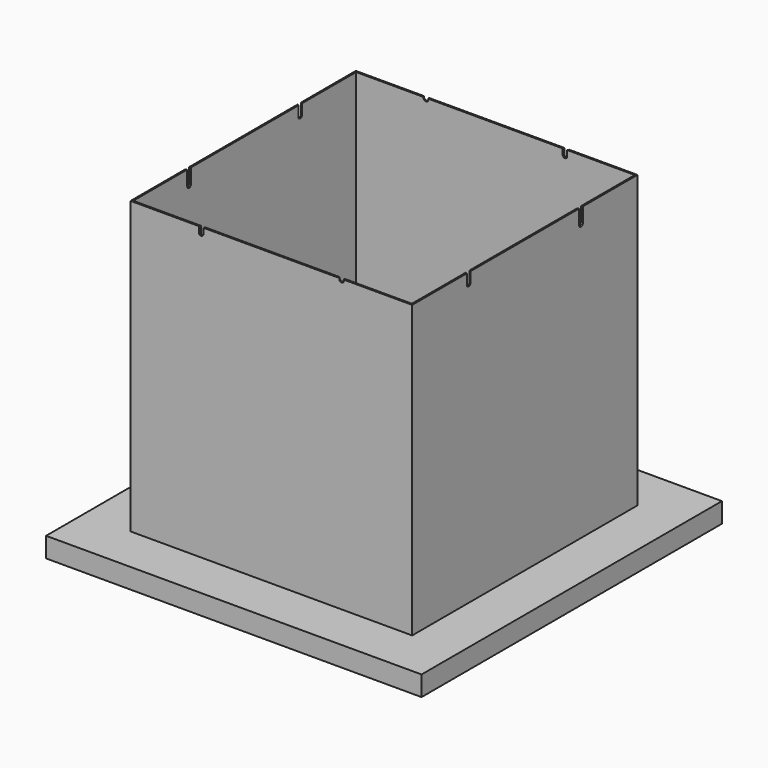
from build123d import *

# Parameters (mm, degrees)
F0_W     = 203.2
F0_H     = 203.2
F0_R     = 1
F1_DEPTH = 0.8
F2_W     = 203.2
F2_H     = 203.2
F2_W_2   = 201.6
F2_H_2   = 201.6
F3_DEPTH = 10
F4_W     = 152.4
F4_H     = 152.4
F4_W_2   = 150.8
F4_H_2   = 150.8
F5_DEPTH = 157.48


with BuildPart() as f1:
    # F0 (on Top) → F1 (new body)
    with BuildSketch(Plane.XY):
        Rectangle(F0_W, F0_H)
        Circle(F0_R, mode=Mode.SUBTRACT)
    extrude(amount=F1_DEPTH)

    # F2 (on face) → F3 (join)
    with BuildSketch(Plane(origin=(0, 0, 0), x_dir=(1, 0, 0), z_dir=(0, 0, -1))):
        Rectangle(F2_W, F2_H)
        Rectangle(F2_W_2, F2_H_2, mode=Mode.SUBTRACT)
    extrude(amount=F3_DEPTH)


with BuildPart() as f5:
    # F4 (on face) → F5 (new body)
    with BuildSketch(Plane.XY.offset(0.8)):
        Rectangle(F4_W, F4_H)
        Rectangle(F4_W_2, F4_H_2, mode=Mode.SUBTRACT)
    extrude(amount=F5_DEPTH)

    # F9: sweep along a path in F8
    with BuildLine(Plane.XY.offset(158.28)) as f9_path:
        Line((38, -76.2), (-38, 76.2))
    # F6 (on face) → F9 (sweep, cut)
    with BuildSketch(Plane.XZ.offset(76.2)):
        with BuildLine():
            Line((39.25, 158.28), (36.75, 158.28))
            Line((36.75, 158.28), (36.75, 157.78))
            ThreePointArc((36.75, 157.78), (38, 156.53), (39.25, 157.78))
            Line((39.25, 157.78), (39.25, 158.28))
        make_face()
    sweep(path=f9_path.line, mode=Mode.SUBTRACT)

    # F10: sweep along a path in F8
    with BuildLine(Plane.XY.offset(158.28)) as f10_path:
        Line((-38, -76.2), (38, 76.2))
    # F6 (on face) → F10 (sweep, cut)
    with BuildSketch(Plane.XZ.offset(76.2)):
        with BuildLine():
            Line((-36.75, 155.28), (-36.75, 158.28))
            Line((-36.75, 158.28), (-39.25, 158.28))
            Line((-39.25, 158.28), (-39.25, 155.28))
            ThreePointArc((-39.25, 155.28), (-38, 154.03), (-36.75, 155.28))
        make_face()
    sweep(path=f10_path.line, mode=Mode.SUBTRACT)

    # F11: sweep along a path in F8
    with BuildLine(Plane.XY.offset(158.28)) as f11_path:
        Line((76.2, -38), (-76.2, 38))
    # F7 (on face) → F11 (sweep, cut)
    with BuildSketch(Plane.YZ.offset(76.2)):
        with BuildLine():
            Line((-36.75, 152.78), (-36.75, 158.28))
            Line((-36.75, 158.28), (-39.25, 158.28))
            Line((-39.25, 158.28), (-39.25, 152.78))
            ThreePointArc((-39.25, 152.78), (-38, 151.53), (-36.75, 152.78))
        make_face()
    sweep(path=f11_path.line, mode=Mode.SUBTRACT)

    # F12: sweep along a path in F8
    with BuildLine(Plane.XY.offset(158.28)) as f12_path:
        Line((76.2, 38), (-76.2, -38))
    # F7 (on face) → F12 (sweep, cut)
    with BuildSketch(Plane.YZ.offset(76.2)):
        with BuildLine():
            ThreePointArc((36.75, 150.28), (38, 149.03), (39.25, 150.28))
            Line((39.25, 150.28), (39.25, 158.28))
            Line((39.25, 158.28), (36.75, 158.28))
            Line((36.75, 158.28), (36.75, 150.28))
        make_face()
    sweep(path=f12_path.line, mode=Mode.SUBTRACT)


solid = Compound([f1.part, f5.part])
